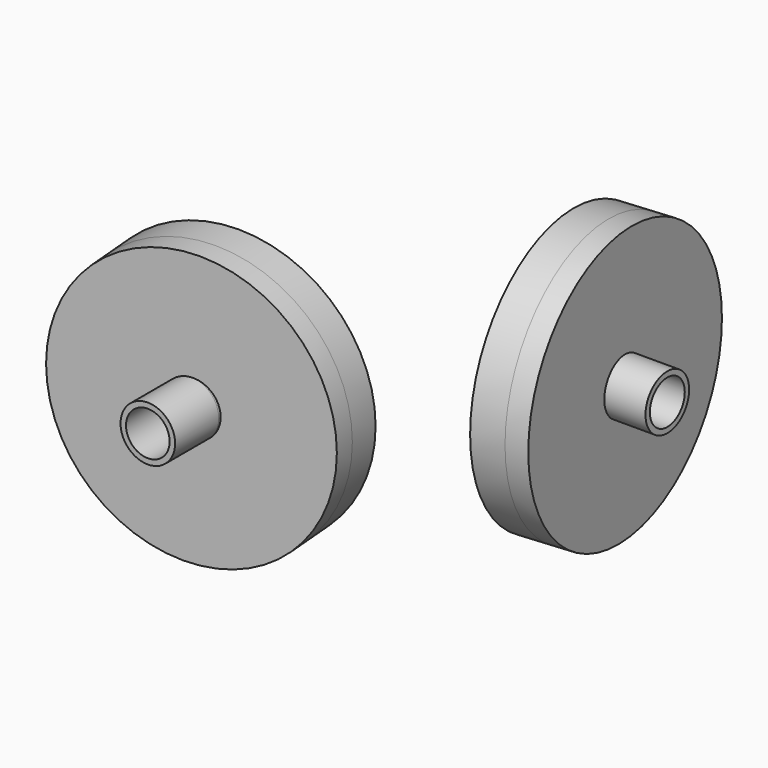
from build123d import *

# Parameters (mm, degrees)
F2_R          = 2.5
F2_R_2        = 2
F3_DEPTH      = 5
F3_DEPTH_BACK = 1
F6_START      = 21
F5_R          = 2.5
F5_R_2        = 2
F6_DEPTH      = 5
F7_DEPTH      = 3
F8_DEPTH      = 3


with BuildPart() as f1:
    # F0 (on Top) → F1 (revolve)
    with BuildSketch(Plane.XY):
        Polygon((-12.6267452116, 0.9029426118), (-12.4524337261, -1.0894467843), (0, 0), (-0.1743114855, 1.9923893962), align=None)
    revolve(axis=Axis((-0.0871557427, 0.9961946981, 0), (0.0871557427, -0.9961946981, 0)))

    # F2 (on Front) → F3 (join, two sides)
    with BuildSketch(Plane.XZ) as f3_sk:
        Circle(F2_R)
        Circle(F2_R_2, mode=Mode.SUBTRACT)
    extrude(amount=F3_DEPTH)
    extrude(f3_sk.sketch, amount=-F3_DEPTH_BACK)


with BuildPart() as f4:
    # F0 (on Top) → F4 (revolve)
    with BuildSketch(Plane.XY):
        Polygon((20.9029426118, 34.6343848867), (18.9105532157, 34.4600734012), (20, 22.0076396751), (21.9923893962, 22.1819511606), align=None)
    revolve(axis=Axis((20.9961946981, 22.0947954178, 0), (-0.9961946981, -0.0871557427, 0)))

    # F5 (on Right) → F6 (join)
    with BuildSketch(Plane.YZ.offset(F6_START)):
        with Locations((22.0076396751, 0)):
            Circle(F5_R)
        with Locations((22.0076396751, 0)):
            Circle(F5_R_2, mode=Mode.SUBTRACT)
    extrude(amount=F6_DEPTH)


with BuildPart() as f7:
    # F7 (new): a face of the model
    f7_faces = [f4.part.faces().sort_by_distance(p)[0] for p in [
        (20, 22.0076396751, 0),
    ]]
    extrude(f7_faces, amount=F7_DEPTH)


with BuildPart() as f8:
    # F8 (new): a face of the model
    f8_faces = [f1.part.faces().sort_by_distance(p)[0] for p in [
        (-0.1743114855, 1.9923893962, 0),
    ]]
    extrude(f8_faces, amount=F8_DEPTH)


solid = Compound([f1.part, f4.part, f7.part, f8.part])
